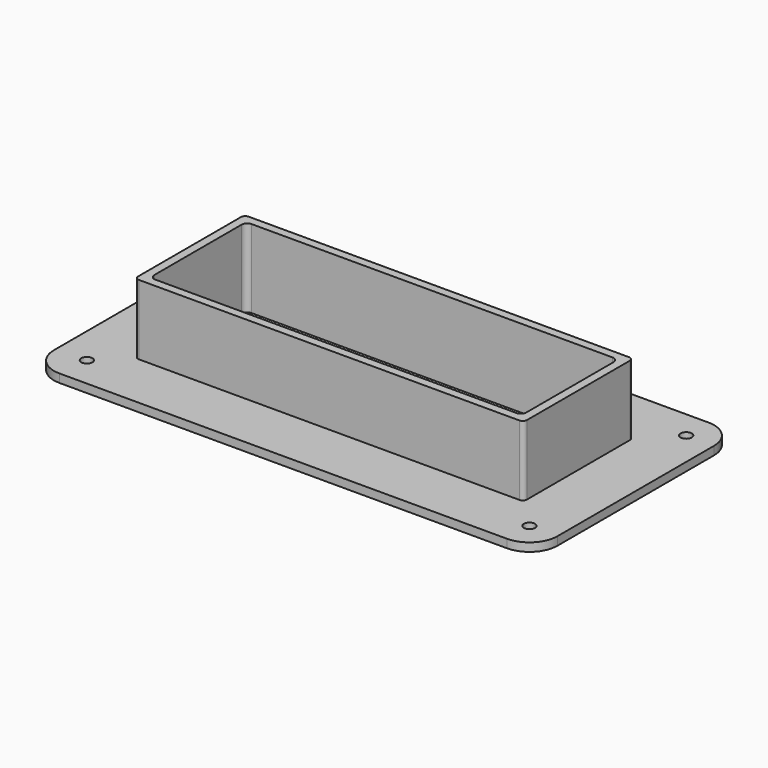
from build123d import *

# Parameters (mm, degrees)
F1_DEPTH = 25
F0_R     = 2
F2_DEPTH = 3


with BuildPart() as f1:
    # F0 (on Top) → F1 (new body)
    with BuildSketch(Plane.XY):
        with BuildLine():
            Line((67.972222, 24.472219), (-68.027778, 24.472219))
            ThreePointArc((-68.027778, 24.472219), (-69.088436, 24.03288), (-69.527775, 22.972222))
            Line((-69.527775, 22.972222), (-69.527775, -23.027778))
            ThreePointArc((-69.527775, -23.027778), (-69.088436, -24.088436), (-68.027778, -24.527775))
            Line((-68.027778, -24.527775), (67.972222, -24.527775))
            ThreePointArc((67.972222, -24.527775), (69.03288, -24.088436), (69.472219, -23.027778))
            Line((69.472219, -23.027778), (69.472219, 22.972222))
            ThreePointArc((69.472219, 22.972222), (69.03288, 24.03288), (67.972222, 24.472219))
        make_face()
        with BuildLine():
            Line((-66.527776, -19.527776), (-66.527776, 19.472221))
            ThreePointArc((-66.527776, 19.472221), (-65.94199, 20.886434), (-64.527776, 21.472221))
            Line((-64.527776, 21.472221), (64.472221, 21.472221))
            ThreePointArc((64.472221, 21.472221), (65.886434, 20.886434), (66.472221, 19.472221))
            Line((66.472221, 19.472221), (66.472221, -19.527776))
            ThreePointArc((66.472221, -19.527776), (65.886434, -20.94199), (64.472221, -21.527776))
            Line((64.472221, -21.527776), (-64.527776, -21.527776))
            ThreePointArc((-64.527776, -21.527776), (-65.94199, -20.94199), (-66.527776, -19.527776))
        make_face(mode=Mode.SUBTRACT)
    extrude(amount=F1_DEPTH)

    # F0 (on Top) → F2 (join)
    with BuildSketch(Plane.XY):
        with BuildLine():
            ThreePointArc((-80.027778, 44.972222), (-87.098846, 42.04329), (-90.027778, 34.972222))
            Line((-90.027778, 34.972222), (-90.027778, -35.027778))
            ThreePointArc((-90.027778, -35.027778), (-87.098846, -42.098846), (-80.027778, -45.027778))
            Line((-80.027778, -45.027778), (79.972222, -45.027778))
            ThreePointArc((79.972222, -45.027778), (87.04329, -42.098846), (89.972222, -35.027778))
            Line((89.972222, -35.027778), (89.972222, 34.972222))
            ThreePointArc((89.972222, 34.972222), (87.04329, 42.04329), (79.972222, 44.972222))
            Line((79.972222, 44.972222), (-80.027778, 44.972222))
        make_face()
        with Locations((-79.027778, -34.027778)):
            Circle(F0_R, mode=Mode.SUBTRACT)
        with Locations((79.972222, -35.027778)):
            Circle(F0_R, mode=Mode.SUBTRACT)
        with Locations((-80.027778, 34.972222)):
            Circle(F0_R, mode=Mode.SUBTRACT)
        with BuildLine():
            ThreePointArc((-70.027778, 22.972222), (-69.441991, 24.386436), (-68.027778, 24.972222))
            Line((-68.027778, 24.972222), (67.972222, 24.972222))
            ThreePointArc((67.972222, 24.972222), (69.386436, 24.386436), (69.972222, 22.972222))
            Line((69.972222, 22.972222), (69.972222, -23.027778))
            ThreePointArc((69.972222, -23.027778), (69.386436, -24.441991), (67.972222, -25.027778))
            Line((67.972222, -25.027778), (-68.027778, -25.027778))
            ThreePointArc((-68.027778, -25.027778), (-69.441991, -24.441991), (-70.027778, -23.027778))
            Line((-70.027778, -23.027778), (-70.027778, 22.972222))
        make_face(mode=Mode.SUBTRACT)
        with Locations((79.972222, 34.972222)):
            Circle(F0_R, mode=Mode.SUBTRACT)
        with BuildLine():
            Line((67.972222, 24.972222), (-68.027778, 24.972222))
            ThreePointArc((-68.027778, 24.972222), (-69.441991, 24.386436), (-70.027778, 22.972222))
            Line((-70.027778, 22.972222), (-70.027778, -23.027778))
            ThreePointArc((-70.027778, -23.027778), (-69.441991, -24.441991), (-68.027778, -25.027778))
            Line((-68.027778, -25.027778), (67.972222, -25.027778))
            ThreePointArc((67.972222, -25.027778), (69.386436, -24.441991), (69.972222, -23.027778))
            Line((69.972222, -23.027778), (69.972222, 22.972222))
            ThreePointArc((69.972222, 22.972222), (69.386436, 24.386436), (67.972222, 24.972222))
        make_face()
        with BuildLine():
            ThreePointArc((-69.527775, 22.972222), (-69.088436, 24.03288), (-68.027778, 24.472219))
            Line((-68.027778, 24.472219), (67.972222, 24.472219))
            ThreePointArc((67.972222, 24.472219), (69.03288, 24.03288), (69.472219, 22.972222))
            Line((69.472219, 22.972222), (69.472219, -23.027778))
            ThreePointArc((69.472219, -23.027778), (69.03288, -24.088436), (67.972222, -24.527775))
            Line((67.972222, -24.527775), (-68.027778, -24.527775))
            ThreePointArc((-68.027778, -24.527775), (-69.088436, -24.088436), (-69.527775, -23.027778))
            Line((-69.527775, -23.027778), (-69.527775, 22.972222))
        make_face(mode=Mode.SUBTRACT)
        with BuildLine():
            Line((67.972222, 24.472219), (-68.027778, 24.472219))
            ThreePointArc((-68.027778, 24.472219), (-69.088436, 24.03288), (-69.527775, 22.972222))
            Line((-69.527775, 22.972222), (-69.527775, -23.027778))
            ThreePointArc((-69.527775, -23.027778), (-69.088436, -24.088436), (-68.027778, -24.527775))
            Line((-68.027778, -24.527775), (67.972222, -24.527775))
            ThreePointArc((67.972222, -24.527775), (69.03288, -24.088436), (69.472219, -23.027778))
            Line((69.472219, -23.027778), (69.472219, 22.972222))
            ThreePointArc((69.472219, 22.972222), (69.03288, 24.03288), (67.972222, 24.472219))
        make_face()
        with BuildLine():
            Line((-66.527776, -19.527776), (-66.527776, 19.472221))
            ThreePointArc((-66.527776, 19.472221), (-65.94199, 20.886434), (-64.527776, 21.472221))
            Line((-64.527776, 21.472221), (64.472221, 21.472221))
            ThreePointArc((64.472221, 21.472221), (65.886434, 20.886434), (66.472221, 19.472221))
            Line((66.472221, 19.472221), (66.472221, -19.527776))
            ThreePointArc((66.472221, -19.527776), (65.886434, -20.94199), (64.472221, -21.527776))
            Line((64.472221, -21.527776), (-64.527776, -21.527776))
            ThreePointArc((-64.527776, -21.527776), (-65.94199, -20.94199), (-66.527776, -19.527776))
        make_face(mode=Mode.SUBTRACT)
    extrude(amount=-F2_DEPTH)


solid = f1.part
